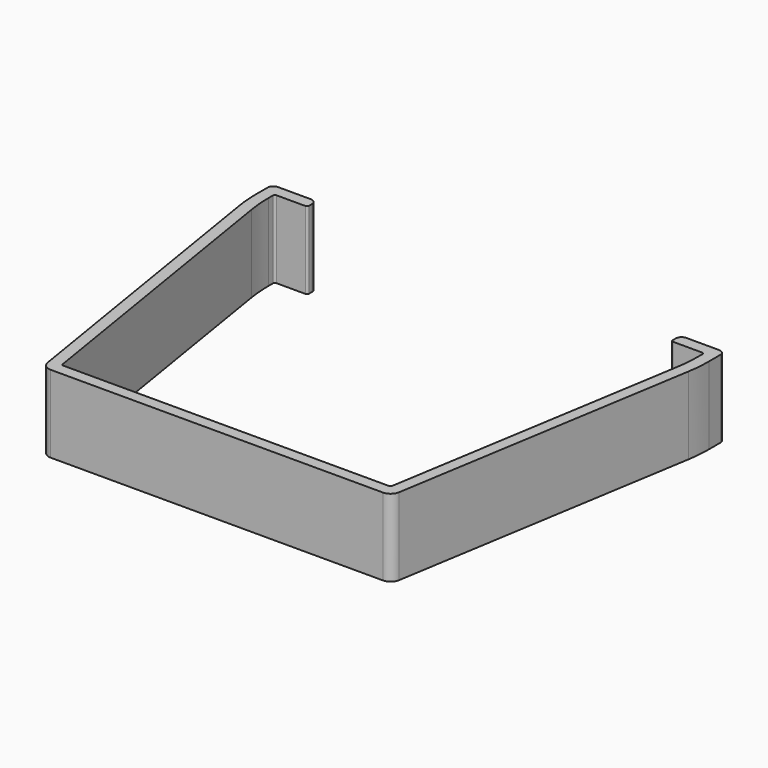
from build123d import *

# Parameters (mm, degrees)
PAD_DEPTH   = 40
FILLET_R    = 75
FILLET001_R = 5
FILLET002_R = 1
FILLET003_R = 3
FILLET004_R = 1


with BuildPart() as part:
    # Sketch → Pad (new body)
    with BuildSketch(Plane.XY):
        Polygon((-94, 182), (-117, 182), (-117, 165.515676), (-90.103703, 0), (90.103703, 0), (117, 165.515676), (117, 182), (94, 182), (94, 176), (111, 176), (111, 166), (85, 6), (-85, 6), (-111, 166), (-111, 176), (-94, 176), align=None)
    extrude(amount=PAD_DEPTH)

    # Fillet
    fillet_edges = [part.edges().sort_by_distance(p)[0] for p in [
        (117, 165.515676, 20),
        (-117, 165.515676, 20),
        (111, 166, 20),
        (-111, 166, 20),
    ]]
    fillet(fillet_edges, radius=FILLET_R)

    # Fillet001
    fillet001_edges = [part.edges().sort_by_distance(p)[0] for p in [
        (-90.103703, 0, 20),
        (90.103703, 0, 20),
    ]]
    fillet(fillet001_edges, radius=FILLET001_R)

    # Fillet002
    fillet002_edges = [part.edges().sort_by_distance(p)[0] for p in [
        (85, 6, 20),
        (-85, 6, 20),
    ]]
    fillet(fillet002_edges, radius=FILLET002_R)

    # Fillet003
    fillet003_edges = [part.edges().sort_by_distance(p)[0] for p in [
        (117, 182, 20),
        (-117, 182, 20),
        (-94, 182, 20),
        (94, 182, 20),
    ]]
    fillet(fillet003_edges, radius=FILLET003_R)

    # Fillet004
    fillet004_edges = [part.edges().sort_by_distance(p)[0] for p in [
        (-94, 176, 20),
        (-111, 176, 20),
        (111, 176, 20),
        (94, 176, 20),
    ]]
    fillet(fillet004_edges, radius=FILLET004_R)


solid = part.part
